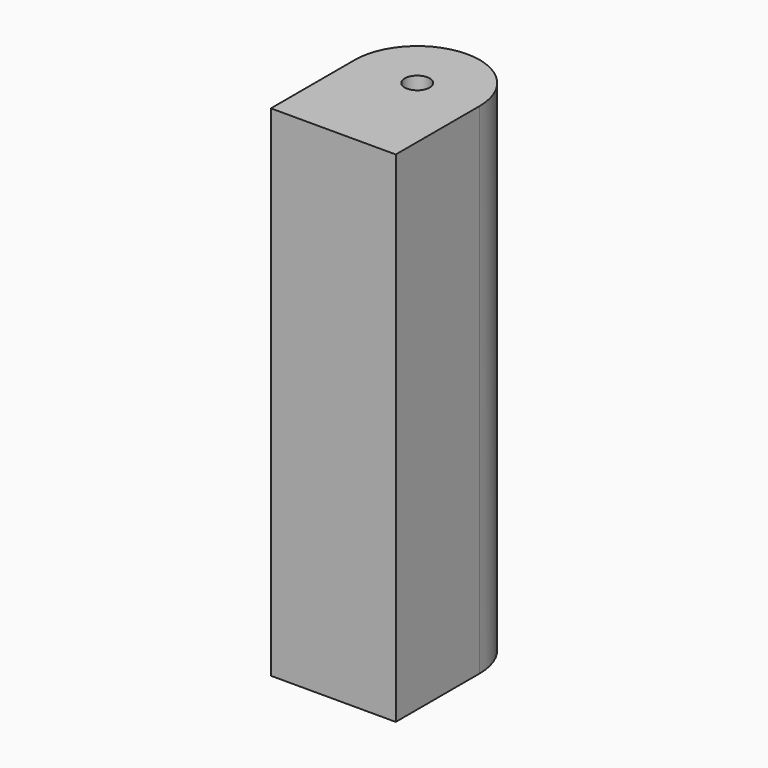
from build123d import *

# Parameters (mm, degrees)
SKETCH_R  = 0.25
PAD_DEPTH = 10


with BuildPart() as part:
    # Sketch → Pad (new body)
    with BuildSketch(Plane.XY):
        with BuildLine():
            Line((0, 0), (0, -2.1))
            Line((0, -2.1), (2.5, -2.1))
            Line((2.5, -2.1), (2.5, 0))
            ThreePointArc((2.5, 0), (1.25, 1.25), (0, 0))
        make_face()
        with Locations((1.25, 0)):
            Circle(SKETCH_R, mode=Mode.SUBTRACT)
    extrude(amount=PAD_DEPTH)


solid = part.part
